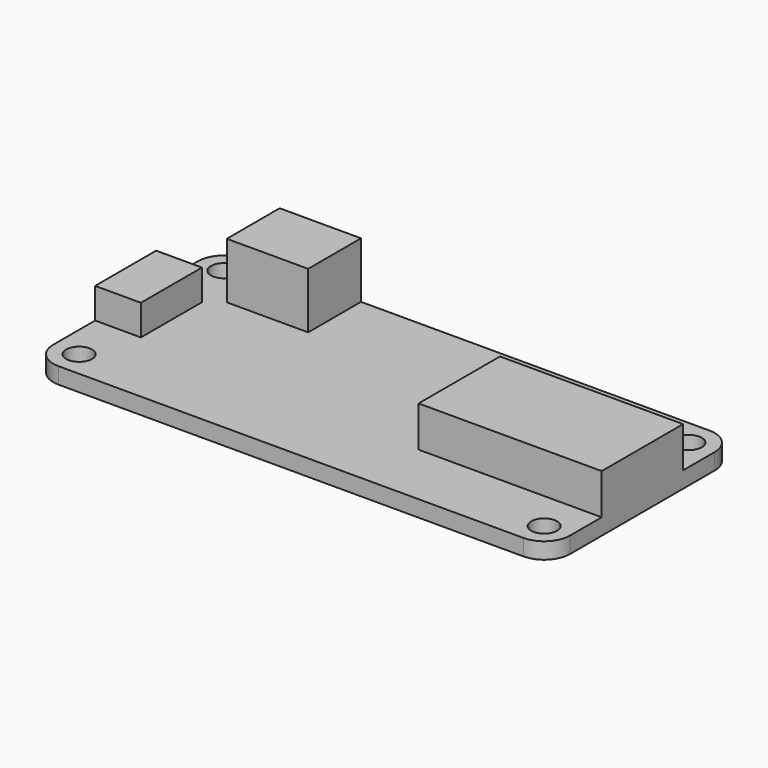
from build123d import *

# Parameters (mm, degrees)
F0_R     = 1.27
F1_DEPTH = 1.6
F2_W     = 4.5
F2_H     = 7.5
F3_DEPTH = 3
F4_W     = 18
F4_H     = 10
F5_DEPTH = 4
F6_W     = 8
F6_H     = 6.5
F7_DEPTH = 5.5


with BuildPart() as f1:
    # F0 (on Top) → F1 (new body)
    with BuildSketch(Plane.XY):
        with BuildLine():
            ThreePointArc((25.4, 8.89), (24.656051, 10.686051), (22.86, 11.43))
            Line((22.86, 11.43), (-22.86, 11.43))
            ThreePointArc((-22.86, 11.43), (-24.656051, 10.686051), (-25.4, 8.89))
            Line((-25.4, 8.89), (-25.4, -8.89))
            ThreePointArc((-25.4, -8.89), (-24.656051, -10.686051), (-22.86, -11.43))
            Line((-22.86, -11.43), (22.86, -11.43))
            ThreePointArc((22.86, -11.43), (24.656051, -10.686051), (25.4, -8.89))
            Line((25.4, -8.89), (25.4, 8.89))
        make_face()
        with Locations((-22.86, -8.89)):
            Circle(F0_R, mode=Mode.SUBTRACT)
        with Locations((22.86, -8.89)):
            Circle(F0_R, mode=Mode.SUBTRACT)
        with Locations((-22.86, 8.89)):
            Circle(F0_R, mode=Mode.SUBTRACT)
        with Locations((22.86, 8.89)):
            Circle(F0_R, mode=Mode.SUBTRACT)
    extrude(amount=F1_DEPTH)

    # F2 (on face) → F3 (join)
    with BuildSketch(Plane.XY.offset(1.6)):
        with Locations((-23.15, 0)):
            Rectangle(F2_W, F2_H)
    extrude(amount=F3_DEPTH)

    # F4 (on face) → F5 (join)
    with BuildSketch(Plane.XY.offset(1.6)):
        with Locations((16.4, 0)):
            Rectangle(F4_W, F4_H)
    extrude(amount=F5_DEPTH)

    # F6 (on face) → F7 (join)
    with BuildSketch(Plane.XY.offset(1.6)):
        with Locations((-15.4, 8.18)):
            Rectangle(F6_W, F6_H)
    extrude(amount=F7_DEPTH)


solid = f1.part
